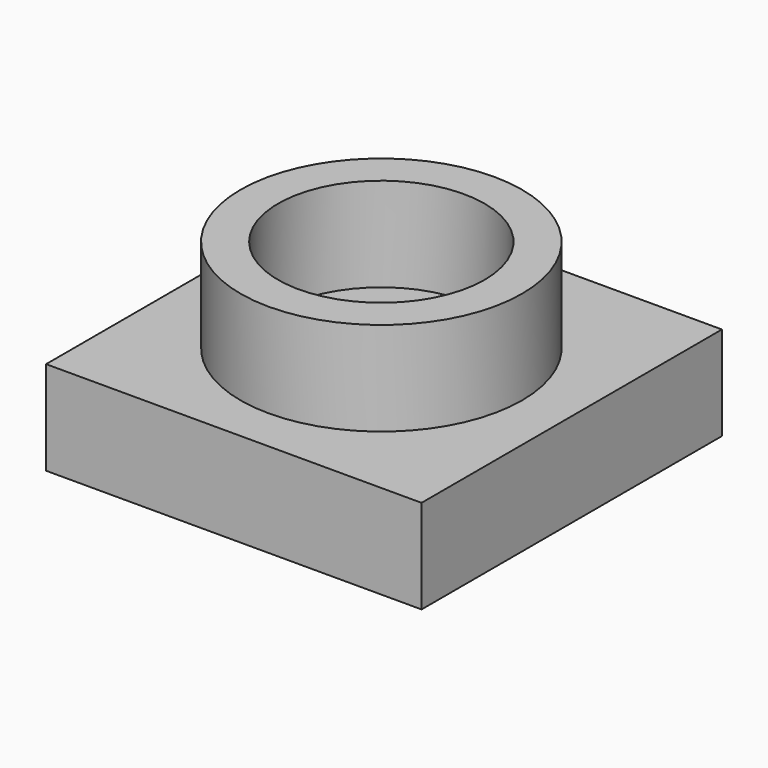
from build123d import *

# Parameters (mm, degrees)
SKETCH_W      = 20
SKETCH_H      = 20
PAD_DEPTH     = 5
SKETCH002_R   = 7.499964
SKETCH002_R_2 = 5.5
PAD001_DEPTH  = 5


with BuildPart() as body:
    # Sketch → Pad (new body)
    with BuildSketch(Plane.XY):
        Rectangle(SKETCH_W, SKETCH_H)
    extrude(amount=PAD_DEPTH)


with BuildPart() as body001:
    # Sketch002 → Pad001 (new body)
    with BuildSketch(Plane.XY.offset(5)):
        with Locations((-0.0002, -0.17892)):
            Circle(SKETCH002_R)
        with Locations((-0.0002, -0.17892)):
            Circle(SKETCH002_R_2, mode=Mode.SUBTRACT)
    extrude(amount=PAD001_DEPTH)


solid = Compound([body.part, body001.part])
